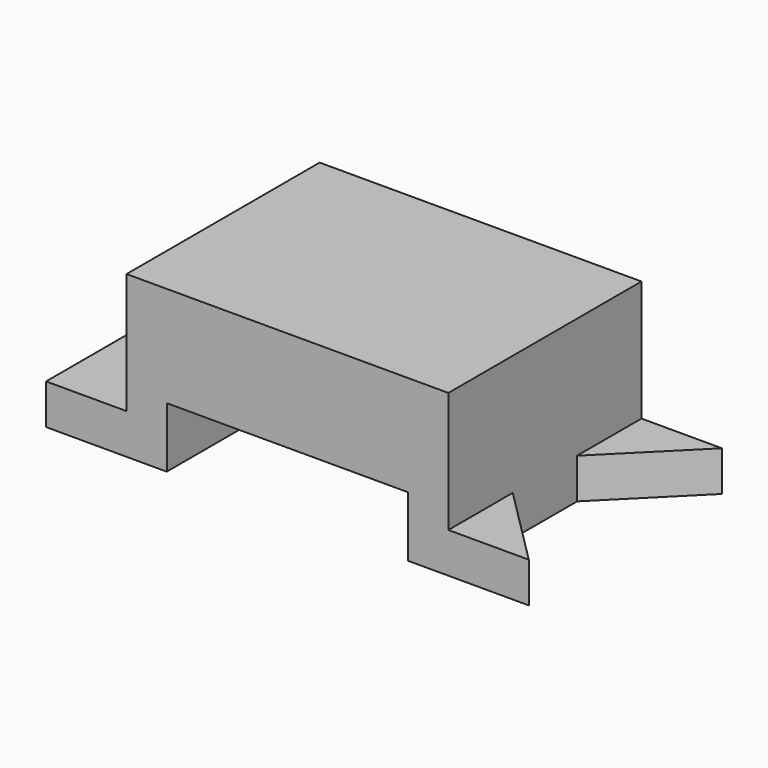
from build123d import *

# Parameters (mm, degrees)
F1_DEPTH = 76.2
F0_W     = 25.4
F0_H     = 12.7
F2_DEPTH = 76.2
F4_DEPTH = 25.4


with BuildPart() as f1:
    # F0 (on Front) → F1 (new body)
    with BuildSketch(Plane.XZ):
        Polygon((-25.4, 0), (0, 0), (12.7, 0), (12.7, 19.05), (88.9, 19.05), (88.9, 0), (101.6, 0), (101.6, 12.7), (101.6, 50.8), (0, 50.8), (0, 12.7), (-25.4, 12.7), align=None)
    extrude(amount=F1_DEPTH)

    # F0 (on Front) → F2 (join)
    with BuildSketch(Plane.XZ):
        with Locations((114.3, 6.35)):
            Rectangle(F0_W, F0_H)
    extrude(amount=F2_DEPTH)

    # F3 (on face) → F4 (cut)
    with BuildSketch(Plane.XY.offset(12.7)):
        Polygon((101.6, -25.4), (101.6, -50.8), (127, -76.2), (127, 0), align=None)
    extrude(amount=-F4_DEPTH, mode=Mode.SUBTRACT)


solid = f1.part
